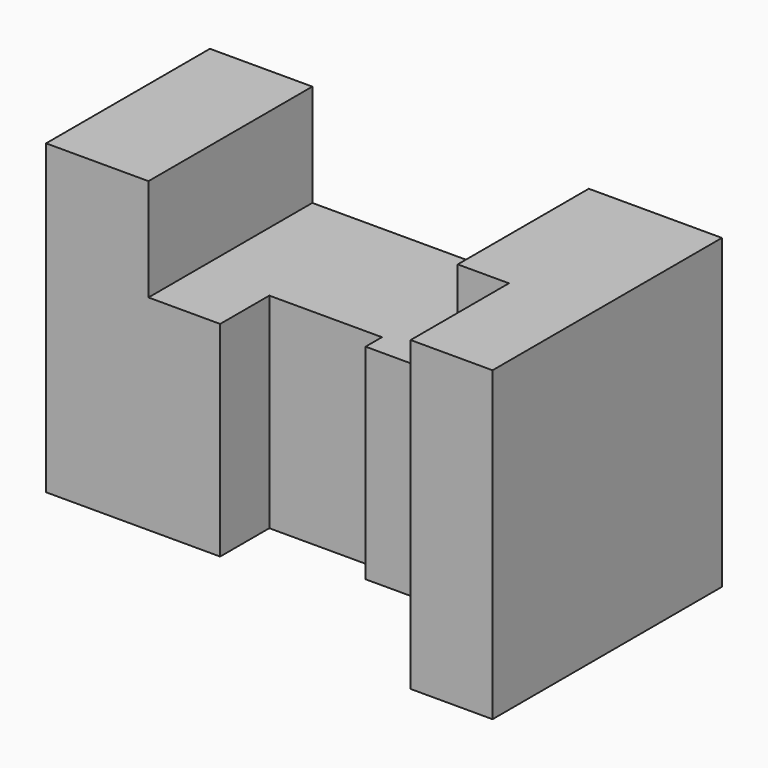
from build123d import *

# Parameters (mm, degrees)
F0_W     = 25
F0_H     = 50
F1_DEPTH = 75
F3_DEPTH = 70


with BuildPart() as f1:
    # F0 (on Top) → F1 (new body)
    with BuildSketch(Plane.XY):
        with Locations((-20.420081, 12.115779)):
            Rectangle(F0_W, F0_H)
        Polygon((62.079919, 37.115779), (-7.920081, 37.115779), (-7.920081, -12.884221), (9.579919, -12.884221), (9.579919, 2.115779), (37.079919, 2.115779), (37.079919, -2.884221), (62.079919, -2.884221), align=None)
        Polygon((92.079919, 37.115779), (62.079919, 37.115779), (62.079919, -2.884221), (72.079919, -2.884221), (72.079919, -32.884221), (92.079919, -32.884221), align=None)
    extrude(amount=-F1_DEPTH)

    # F2 (on face) → F3 (cut)
    with BuildSketch(Plane.XZ.offset(12.884221)):
        Polygon((-7.920081, -25), (9.579919, -25), (59.579919, -25), (59.579919, 0), (9.579919, 0), (-7.920081, 0), align=None)
    extrude(amount=-F3_DEPTH, mode=Mode.SUBTRACT)


solid = f1.part
